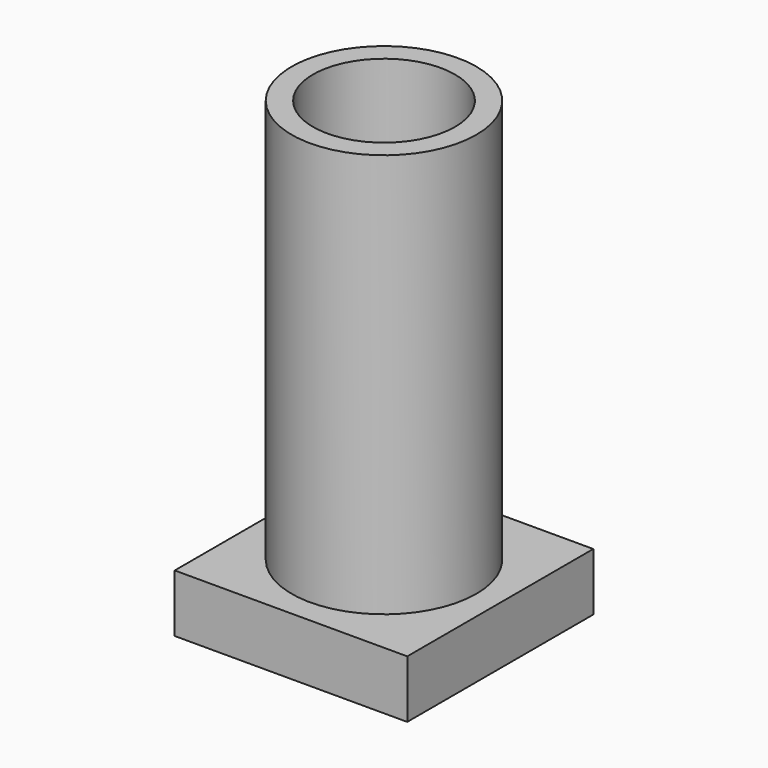
from build123d import *

# Parameters (mm, degrees)
F0_W     = 20.141244
F0_H     = 20.141244
F0_R     = 8
F1_DEPTH = 5
F0_R_2   = 6.15
F2_DEPTH = 40
F3_DEPTH = 3


with BuildPart() as f1:
    # F0 (on Top) → F1 (new body)
    with BuildSketch(Plane.XY):
        Rectangle(F0_W, F0_H)
        Circle(F0_R, mode=Mode.SUBTRACT)
    extrude(amount=F1_DEPTH)

    # F0 (on Top) → F2 (join)
    with BuildSketch(Plane.XY):
        Circle(F0_R)
        Circle(F0_R_2, mode=Mode.SUBTRACT)
    extrude(amount=F2_DEPTH)

    # F0 (on Top) → F3 (join)
    with BuildSketch(Plane.XY):
        Circle(F0_R_2)
    extrude(amount=F3_DEPTH)


solid = f1.part
